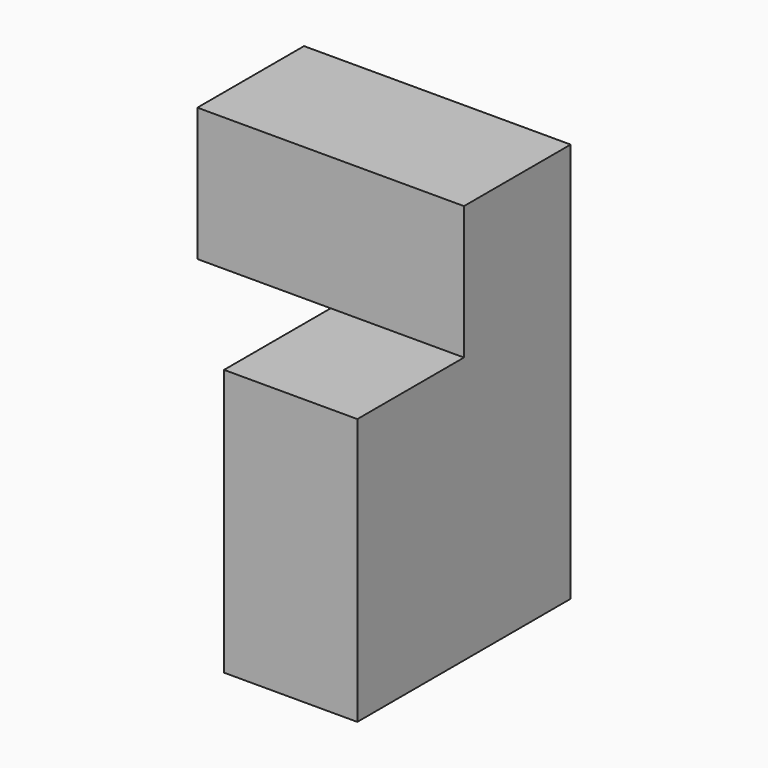
from build123d import *

# Parameters (mm, degrees)
F0_W     = 19.05
F0_H     = 38.1
F1_DEPTH = 38.1
F2_W     = 19.05
F2_H     = 19.05
F3_DEPTH = 19.05
F4_W     = 19.05
F4_H     = 19.05
F5_DEPTH = 19.05


with BuildPart() as f1:
    # F0 (on Top) → F1 (new body)
    with BuildSketch(Plane.XY):
        with Locations((9.525, 19.05)):
            Rectangle(F0_W, F0_H)
    extrude(amount=F1_DEPTH)

    # F2 (on face) → F3 (join)
    with BuildSketch(Plane.XY.offset(38.1)):
        with Locations((9.525, 28.575)):
            Rectangle(F2_W, F2_H)
    extrude(amount=F3_DEPTH)

    # F4 (on face) → F5 (join)
    with BuildSketch(Plane(origin=(0, 0, 0), x_dir=(0, -1, 0), z_dir=(-1, 0, 0))):
        with Locations((-28.575, 47.625)):
            Rectangle(F4_W, F4_H)
    extrude(amount=F5_DEPTH)


solid = f1.part
